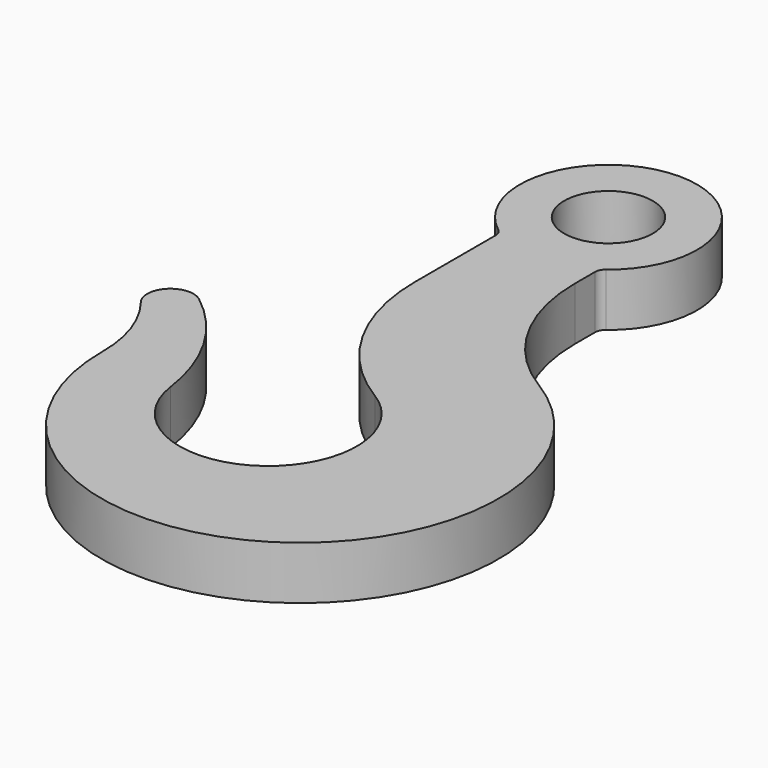
from build123d import *

# Parameters (mm, degrees)
SKETCH_R  = 12.5
PAD_DEPTH = 15


with BuildPart() as part:
    # Sketch → Pad (new body)
    with BuildSketch(Plane.XY):
        with BuildLine():
            ThreePointArc((-24.759708, -123.457867), (13.746972, -140.88111), (12.962963, -98.62334))
            ThreePointArc((-14, -50.739622), (-6.795871, -78.216211), (12.962963, -98.62334))
            Line((-14, -22.248595), (-14, -50.739622))
            ThreePointArc((-14, -22.248595), (-14.310736, -20.918988), (-15.178571, -19.864817))
            ThreePointArc((15.178571, -19.864817), (0, 25), (-15.178571, -19.864817))
            ThreePointArc((15.178571, -19.864817), (14.310736, -20.918988), (14, -22.248595))
            Line((14, -22.248595), (14, -29.385432))
            ThreePointArc((14, -29.385432), (20.427246, -53.909198), (38.056604, -72.128153))
            ThreePointArc((-46.999155, -119.692368), (36.33247, -168.876744), (38.056604, -72.128153))
            ThreePointArc((-46.999155, -119.692368), (-49.050241, -107.16628), (-55.112152, -96.014461))
            ThreePointArc((-46.031526, -86.852067), (-54.616749, -87.424453), (-55.112152, -96.014461))
            ThreePointArc((-24.759708, -123.457867), (-31.802947, -103.067248), (-46.031526, -86.852067))
        make_face()
        Circle(SKETCH_R, mode=Mode.SUBTRACT)
    extrude(amount=PAD_DEPTH)


solid = part.part
